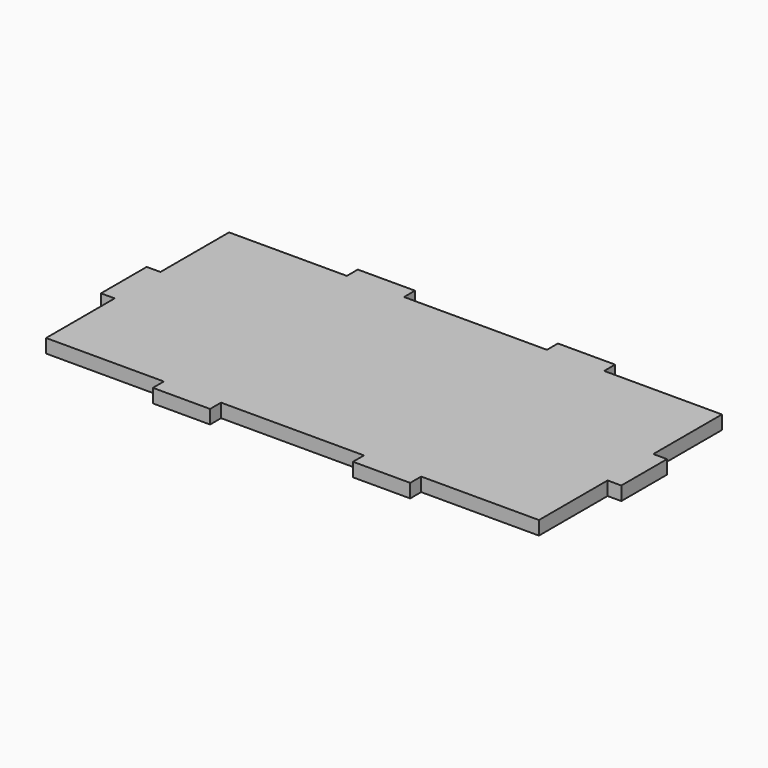
from build123d import *

# Parameters (mm, degrees)
F1_DEPTH = 2.4


with BuildPart() as f1:
    # F0 (on Top) → F1 (new body)
    with BuildSketch(Plane.XY):
        Polygon((43.1, 5), (43.1, 20), (22.5, 20), (22.5, 22.4), (12.5, 22.4), (12.5, 20), (-12.5, 20), (-12.5, 22.4), (-22.5, 22.4), (-22.5, 20), (-43.1, 20), (-43.1, 5), (-45.5, 5), (-45.5, -5), (-43.1, -5), (-43.1, -20), (-22.5, -20), (-22.5, -22.4), (-12.5, -22.4), (-12.5, -20), (12.5, -20), (12.5, -22.4), (22.5, -22.4), (22.5, -20), (43.1, -20), (43.1, -5), (45.5, -5), (45.5, 5), align=None)
    extrude(amount=F1_DEPTH)


solid = f1.part
